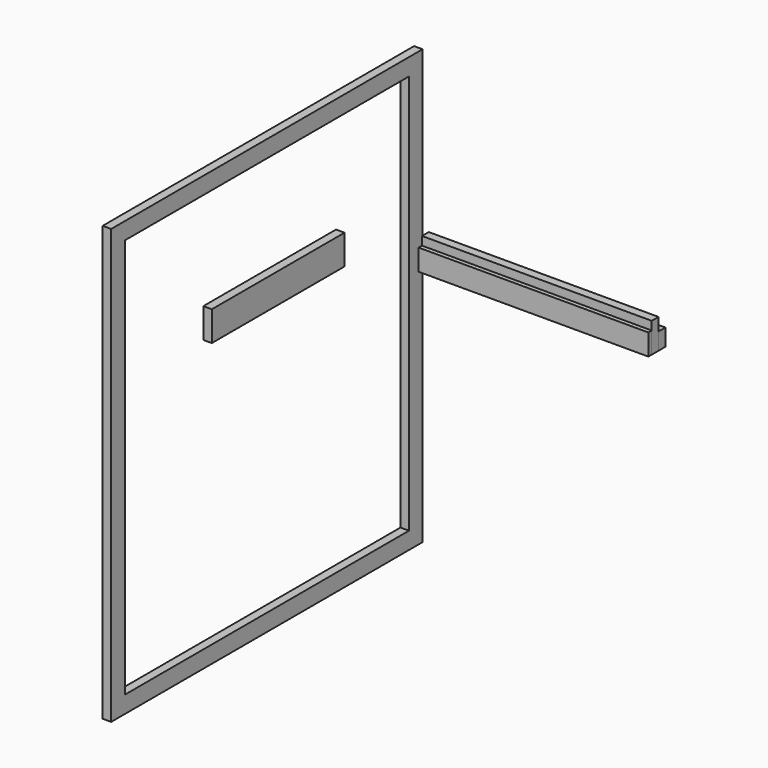
from build123d import *

# Parameters (mm, degrees)
F0_W     = 581.025
F0_H     = 647.7
F0_W_2   = 530.225
F0_H_2   = 596.9
F1_DEPTH = 12.7
F2_W     = 342.9
F2_H     = 12.7
F3_DEPTH = 25.4
F4_W     = 342.9
F4_H     = 25.4
F4_H_2   = 19.05
F5_DEPTH = 12.7
F6_W     = 342.9
F6_H     = 31.75
F7_DEPTH = 6.35
F8_W     = 247.65
F8_H     = 44.45
F9_DEPTH = 12.7


with BuildPart() as f1:
    # F0 (on Right) → F1 (new body)
    with BuildSketch(Plane.YZ):
        with Locations((-6.72147, -58.908128)):
            Rectangle(F0_W, F0_H)
        with Locations((-6.72147, -58.908128)):
            Rectangle(F0_W_2, F0_H_2, mode=Mode.SUBTRACT)
    extrude(amount=F1_DEPTH)


with BuildPart() as f3:
    # F2 (on Top) → F3 (new body)
    with BuildSketch(Plane.XY):
        with Locations((213.473471, 265.108508)):
            Rectangle(F2_W, F2_H)
    extrude(amount=F3_DEPTH)


with BuildPart() as f5:
    # F4 (on face) → F5 (new body)
    with BuildSketch(Plane.XZ.offset(-258.758508)):
        with Locations((213.473471, 12.7)):
            Rectangle(F4_W, F4_H)
        with Locations((213.473471, 34.925)):
            Rectangle(F4_W, F4_H_2)
    extrude(amount=F5_DEPTH)


with BuildPart() as f7:
    # F6 (on face) → F7 (new body)
    with BuildSketch(Plane.XZ.offset(-246.058508)):
        with Locations((213.473471, 15.875)):
            Rectangle(F6_W, F6_H)
    extrude(amount=F7_DEPTH)


with BuildPart() as f9:
    # F8 (on Right) → F9 (new body)
    with BuildSketch(Plane.YZ):
        with Locations((14.339412, 60.873013)):
            Rectangle(F8_W, F8_H)
    extrude(amount=F9_DEPTH)


solid = Compound([f1.part, f3.part, f5.part, f7.part, f9.part])
